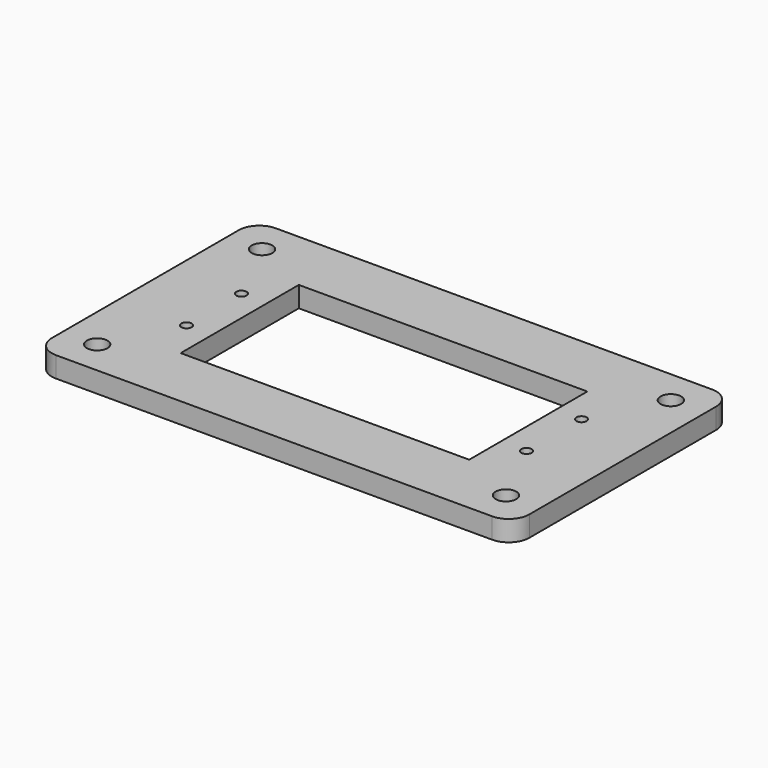
from build123d import *

# Parameters (mm, degrees)
F0_W     = 69.5
F0_H     = 40
F0_R     = 1.5
F0_R_2   = 0.75
F0_W_2   = 42
F0_H_2   = 21.5
F1_DEPTH = 3
F2_R     = 3


with BuildPart() as f1:
    # F0 (on Top) → F1 (new body)
    with BuildSketch(Plane.XY):
        Rectangle(F0_W, F0_H)
        with Locations((-29.75, -15)):
            Circle(F0_R, mode=Mode.SUBTRACT)
        with Locations((-24.75, -5)):
            Circle(F0_R_2, mode=Mode.SUBTRACT)
        with Locations((29.75, -15)):
            Circle(F0_R, mode=Mode.SUBTRACT)
        with Locations((24.75, -5)):
            Circle(F0_R_2, mode=Mode.SUBTRACT)
        with Locations((-24.75, 5)):
            Circle(F0_R_2, mode=Mode.SUBTRACT)
        with Locations((-29.75, 15)):
            Circle(F0_R, mode=Mode.SUBTRACT)
        Rectangle(F0_W_2, F0_H_2, mode=Mode.SUBTRACT)
        with Locations((24.75, 5)):
            Circle(F0_R_2, mode=Mode.SUBTRACT)
        with Locations((29.75, 15)):
            Circle(F0_R, mode=Mode.SUBTRACT)
    extrude(amount=F1_DEPTH)

    # F2
    f2_edges = [f1.edges().sort_by_distance(p)[0] for p in [
        (-34.75, -20, 1.5),
        (34.75, -20, 1.5),
        (34.75, 20, 1.5),
        (-34.75, 20, 1.5),
    ]]
    fillet(f2_edges, radius=F2_R)


solid = f1.part
